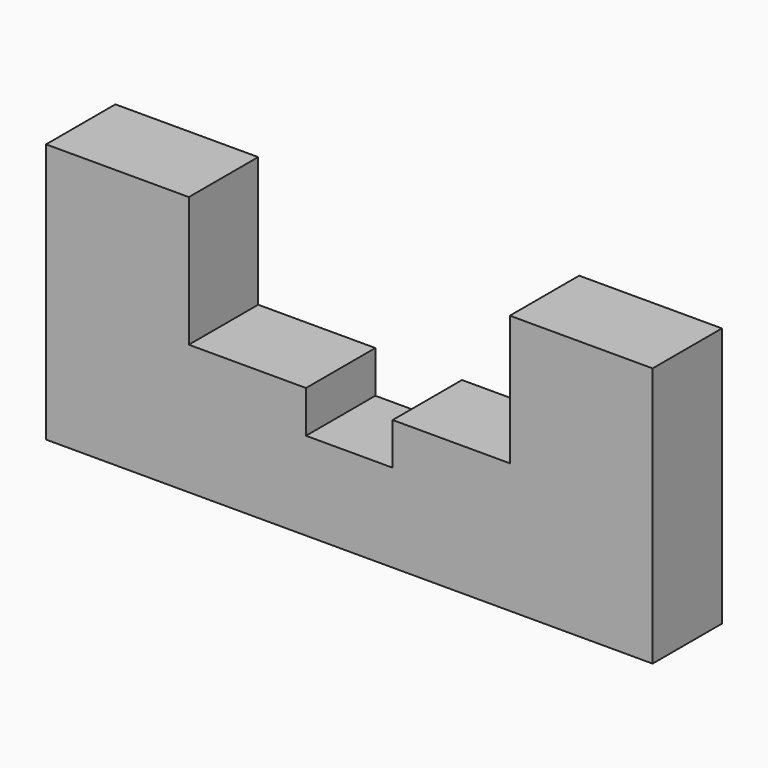
from build123d import *

# Parameters (mm, degrees)
F1_DEPTH = 25.4
F2_W     = 25.4
F2_H     = 12.321454
F3_DEPTH = 4
F4_DEPTH = 25.401


with BuildPart() as f1:
    # F0 (on Front) → F1 (new body)
    with BuildSketch(Plane.XZ):
        Polygon((-47.05, 25.021454), (-88.9, 25.021454), (-88.9, -30.673691), (-88.9, -51.178546), (-41.565981, -51.178546), (0, -51.178546), (88.9, -51.178546), (88.9, 25.021454), (47.05, 25.021454), (47.05, -13.078546), (0, -13.078546), (-47.05, -13.078546), align=None)
    extrude(amount=F1_DEPTH)

    # F2 (on Front) → F3 (cut)
    with BuildSketch(Plane.XZ):
        with Locations((0, -19.239273)):
            Rectangle(F2_W, F2_H)
    extrude(amount=F3_DEPTH, mode=Mode.SUBTRACT)

    # F2 (on Front) → F4 (cut, through all)
    with BuildSketch(Plane.XZ):
        with Locations((0, -19.239273)):
            Rectangle(F2_W, F2_H)
    extrude(amount=F4_DEPTH, mode=Mode.SUBTRACT)


solid = f1.part
